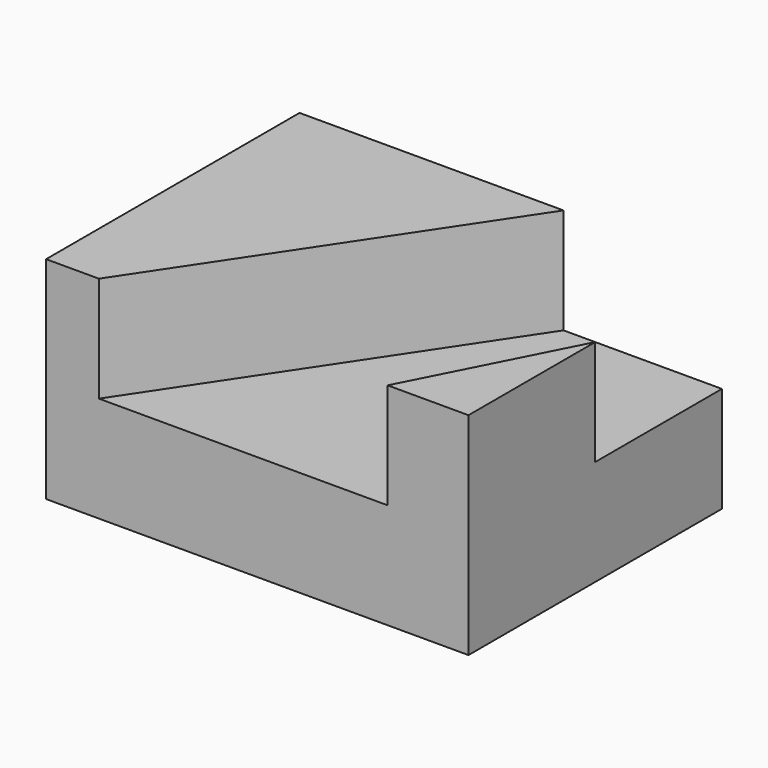
from build123d import *

# Parameters (mm, degrees)
F0_W     = 101.6
F0_H     = 76.2
F1_DEPTH = 25.4
F3_DEPTH = 25.4
F4_DEPTH = 25.4


with BuildPart() as f1:
    # F0 (on Top) → F1 (new body)
    with BuildSketch(Plane.XY):
        with Locations((3.972126, -13.183172)):
            Rectangle(F0_W, F0_H)
    extrude(amount=-F1_DEPTH)

    # F2 (on face) → F3 (join)
    with BuildSketch(Plane.XY):
        Polygon((-46.827874, -51.283172), (-34.127874, -51.283172), (16.672126, 24.916828), (-46.827874, 24.916828), align=None)
    extrude(amount=F3_DEPTH)

    # F2 (on face) → F4 (join)
    with BuildSketch(Plane.XY):
        Polygon((54.772126, -13.183172), (35.323564, -51.283172), (54.772126, -51.283172), align=None)
    extrude(amount=F4_DEPTH)


solid = f1.part
